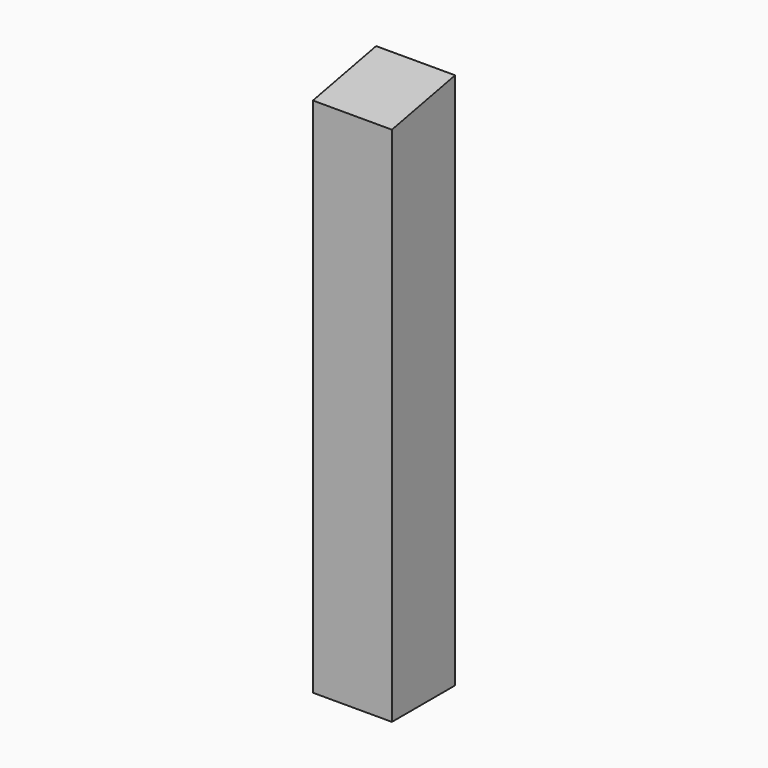
from build123d import *

# Parameters (mm, degrees)
PAD_DEPTH = 25


with BuildPart() as part:
    # Sketch → Pad (new body)
    with BuildSketch(Plane.YZ):
        Polygon((12.5, 85), (12.5, -85), (-12.5, -85), (-12.5, 80), align=None)
    extrude(amount=PAD_DEPTH)


solid = part.part
